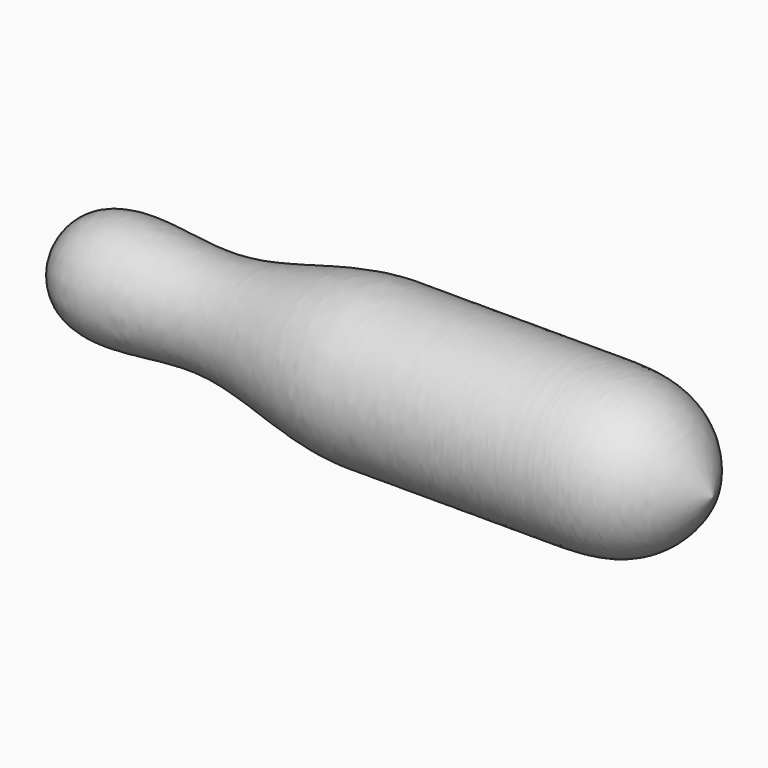
from build123d import *


with BuildPart() as part:
    # Sketch → Revolution (revolve)
    with BuildSketch(Plane.XY):
        with BuildLine():
            Line((-200, 0), (200, 0))
            add(Edge.make_bspline(
                [(-200, 95), (-80, 95), (40, 95), (160, 95), (200, 0)],
                knots=[0, 0, 0, 0, 0.5, 1, 1, 1, 1], degree=3))
            add(Edge.make_bspline(
                [(-600, 0), (-580, 95), (-400, 25), (-280, 95), (-200, 95)],
                knots=[0, 0, 0, 0, 0.5, 1, 1, 1, 1], degree=3))
            Line((-600, 0), (-200, 0))
        make_face()
    revolve(axis=Axis((0, 0, 0), (1, 0, 0)))


solid = part.part
